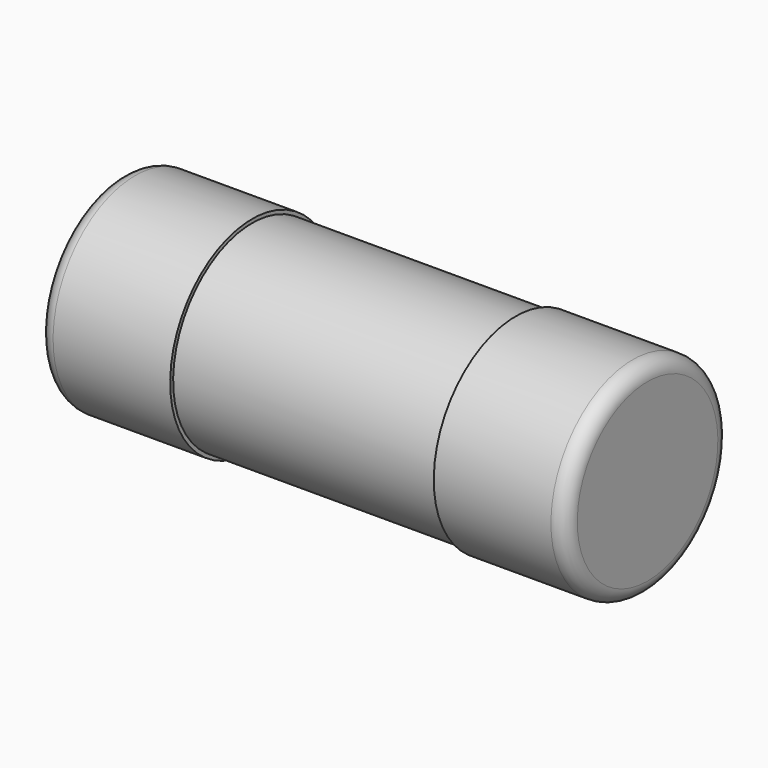
from build123d import *

# Parameters (mm, degrees)
SKETCH_W = 2.7
SKETCH_H = 0.675


with BuildPart() as revolution:
    # Sketch → Revolution (revolve)
    with BuildSketch(Plane.XZ):
        with Locations((0, 0.3625)):
            Rectangle(SKETCH_W, SKETCH_H)
    revolve(axis=Axis((-15.061842, 0, 0.7), (1, 0, 0)))


with BuildPart() as fusion:
    # Sketch001 → Revolution001 (revolve)
    with BuildSketch(Plane.XZ):
        with BuildLine():
            Line((-1.7, 0), (-0.9, 0))
            Line((-0.9, 0), (-0.9, 0.6))
            Line((-0.9, 0.6), (0.9, 0.6))
            Line((0.9, 0), (0.9, 0.6))
            Line((0.9, 0), (1.7, 0))
            ThreePointArc((1.7, 0), (1.770711, 0.029289), (1.8, 0.1))
            Line((1.8, 0.1), (1.8, 0.7))
            Line((-1.8, 0.7), (1.8, 0.7))
            Line((-1.8, 0.7), (-1.8, 0.1))
            ThreePointArc((-1.8, 0.1), (-1.770711, 0.029289), (-1.7, 0))
        make_face()
    revolve(axis=Axis((-8.2, 0, 0.7), (1, 0, 0)))

    # Fusion: union Revolution
    add(revolution.part)


solid = fusion.part
